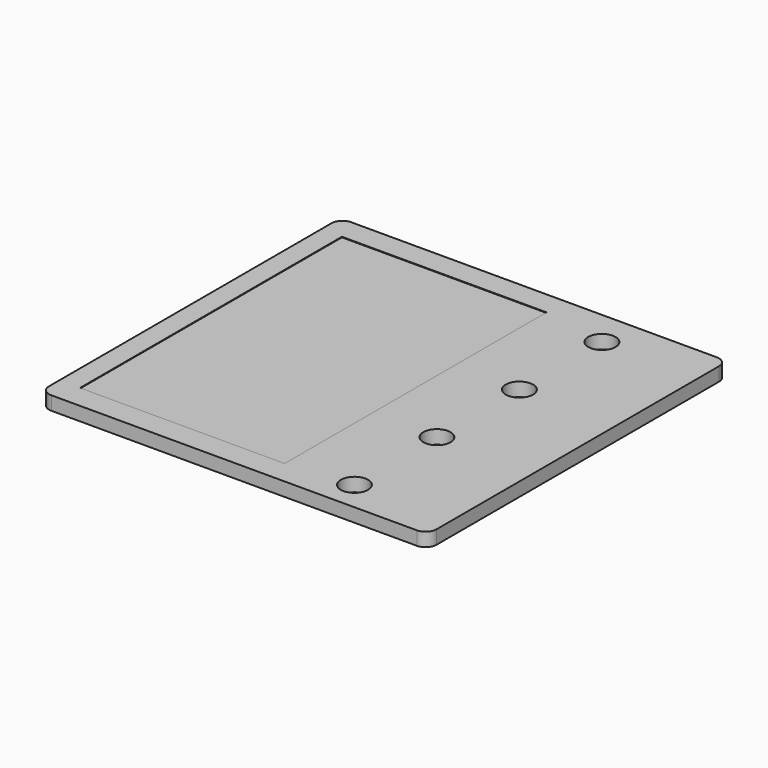
from build123d import *

# Parameters (mm, degrees)
F0_W     = 180.34
F0_H     = 174.487158
F1_DEPTH = 6.35
F2_R     = 5.08
F3_W     = 95.25
F3_H     = 152.4
F4_DEPTH = 0.254
F3_R     = 6.35
F5_DEPTH = 25.4


with BuildPart() as f1:
    # F0 (on Top) → F1 (new body)
    with BuildSketch(Plane.XY):
        with Locations((-7.8691, -48.399139)):
            Rectangle(F0_W, F0_H)
    extrude(amount=F1_DEPTH)

    # F2
    f2_edges = [f1.edges().sort_by_distance(p)[0] for p in [
        (-98.0391, -135.642718, 3.175),
        (82.3009, -135.642718, 3.175),
        (-98.0391, 38.84444, 3.175),
        (82.3009, 38.84444, 3.175),
    ]]
    fillet(f2_edges, radius=F2_R)

    # F3 (on face) → F4 (cut)
    with BuildSketch(Plane.XY.offset(6.35)):
        with Locations((-40.792745, -48.399139)):
            Rectangle(F3_W, F3_H)
    extrude(amount=-F4_DEPTH, mode=Mode.SUBTRACT)

    # F3 (on face) → F5 (cut)
    with BuildSketch(Plane.XY.offset(6.35)):
        with Locations((37.122272, -121.842124)):
            Circle(F3_R)
        with Locations((37.122272, -73.836124)):
            Circle(F3_R)
        with Locations((37.122272, 22.175876)):
            Circle(F3_R)
        with Locations((37.122272, -25.830124)):
            Circle(F3_R)
    extrude(amount=-F5_DEPTH, mode=Mode.SUBTRACT)


solid = f1.part
